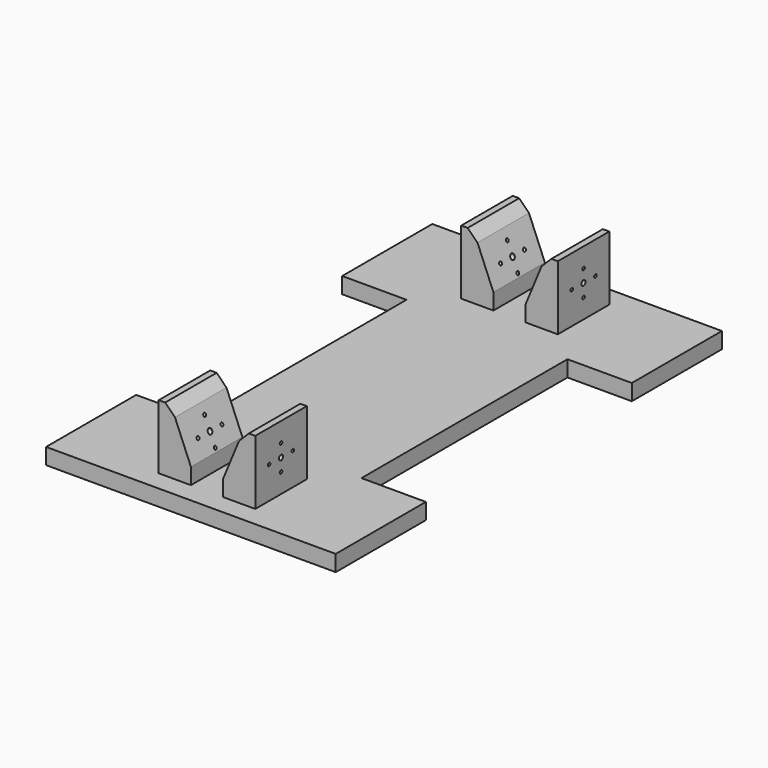
from build123d import *

# Parameters (mm, degrees)
F1_DEPTH = 12.7
F2_W     = 25.4
F2_H     = 50.8
F3_DEPTH = 63.5
F4_SIZE  = 20.32
F5_SIZE  = 17.78
F7_DEPTH = 254
F9_DEPTH = 254


with BuildPart() as f1:
    # F0 (on Top) → F1 (new body)
    with BuildSketch(Plane.XY):
        Polygon((50.8, 190.5), (114.3, 190.5), (114.3, 381), (0, 381), (0, 292.1), (50.8, 292.1), align=None)
        Polygon((114.3, 381), (114.3, 190.5), (177.8, 190.5), (177.8, 292.1), (228.6, 292.1), (228.6, 381), align=None)
        Polygon((0, 88.9), (0, 0), (114.3, 0), (114.3, 190.5), (50.8, 190.5), (50.8, 88.9), align=None)
        Polygon((114.3, 190.5), (114.3, 0), (228.6, 0), (228.6, 88.9), (177.8, 88.9), (177.8, 190.5), align=None)
    extrude(amount=F1_DEPTH)

    # F2 (on Top) → F3 (join)
    with BuildSketch(Plane.XY):
        with Locations((139.7, 339.725)):
            Rectangle(F2_W, F2_H)
        with Locations((88.9, 339.725)):
            Rectangle(F2_W, F2_H)
        with Locations((139.7, 41.275)):
            Rectangle(F2_W, F2_H)
        with Locations((88.9, 41.275)):
            Rectangle(F2_W, F2_H)
    extrude(amount=F3_DEPTH)

    # F4
    f4_edges = [f1.edges().sort_by_distance(p)[0] for p in [
        (101.6, 41.275, 63.5),
        (127, 41.275, 63.5),
        (127, 339.725, 63.5),
        (101.6, 339.725, 63.5),
    ]]
    chamfer(f4_edges, length=F4_SIZE)

    # F5
    f5_edges = [f1.edges().sort_by_distance(p)[0] for p in [
        (127, 339.725, 43.18),
        (101.6, 339.725, 43.18),
        (127, 41.275, 43.18),
        (101.6, 41.275, 43.18),
    ]]
    chamfer(f5_edges, length=F5_SIZE)

    # F6 (on face) → F7 (cut)
    with BuildSketch(Plane(origin=(76.2, 0, 0), x_dir=(0, -1, 0), z_dir=(-1, 0, 0))):
        with BuildLine():
            ThreePointArc((-40.005, 48.1965), (-40.3769743879, 49.0945256121), (-41.275, 49.4665))
            Line((-41.275, 49.4665), (-41.275, 46.9265))
            ThreePointArc((-41.275, 46.9265), (-40.3769743879, 47.2984743879), (-40.005, 48.1965))
        make_face()
        with BuildLine():
            Line((-41.275, 46.9265), (-41.275, 49.4665))
            ThreePointArc((-41.275, 49.4665), (-42.545, 48.1965), (-41.275, 46.9265))
        make_face()
        with BuildLine():
            ThreePointArc((-51.7525, 38.1), (-53.0225, 39.37), (-54.2925, 38.1))
            Line((-54.2925, 38.1), (-51.7525, 38.1))
        make_face()
        with BuildLine():
            Line((-51.7525, 38.1), (-54.2925, 38.1))
            ThreePointArc((-54.2925, 38.1), (-53.0225, 36.83), (-51.7525, 38.1))
        make_face()
        with BuildLine():
            ThreePointArc((-39.243, 38.1), (-39.8381590206, 39.5368409794), (-41.275, 40.132))
            Line((-41.275, 40.132), (-41.275, 38.1))
            Line((-41.275, 38.1), (-39.243, 38.1))
        make_face()
        with BuildLine():
            Line((-41.275, 38.1), (-41.275, 40.132))
            ThreePointArc((-41.275, 40.132), (-42.7118409794, 39.5368409794), (-43.307, 38.1))
            Line((-43.307, 38.1), (-41.275, 38.1))
        make_face()
        with BuildLine():
            Line((-41.275, 38.1), (-43.307, 38.1))
            ThreePointArc((-43.307, 38.1), (-42.7118409794, 36.6631590206), (-41.275, 36.068))
            Line((-41.275, 36.068), (-41.275, 38.1))
        make_face()
        with BuildLine():
            ThreePointArc((-41.275, 29.2735), (-42.545, 28.0035), (-41.275, 26.7335))
            Line((-41.275, 26.7335), (-41.275, 29.2735))
        make_face()
        with BuildLine():
            Line((-41.275, 29.2735), (-41.275, 26.7335))
            ThreePointArc((-41.275, 26.7335), (-40.3769743879, 27.1054743879), (-40.005, 28.0035))
            ThreePointArc((-40.005, 28.0035), (-40.3769743879, 28.9015256121), (-41.275, 29.2735))
        make_face()
        with BuildLine():
            Line((-30.7975, 38.1), (-28.2575, 38.1))
            ThreePointArc((-28.2575, 38.1), (-29.5275, 39.37), (-30.7975, 38.1))
        make_face()
        with BuildLine():
            ThreePointArc((-30.7975, 38.1), (-29.5275, 36.83), (-28.2575, 38.1))
            Line((-28.2575, 38.1), (-30.7975, 38.1))
        make_face()
        with BuildLine():
            ThreePointArc((-41.275, 36.068), (-39.8381590206, 36.6631590206), (-39.243, 38.1))
            Line((-39.243, 38.1), (-41.275, 38.1))
            Line((-41.275, 38.1), (-41.275, 36.068))
        make_face()
    extrude(amount=-F7_DEPTH, mode=Mode.SUBTRACT)

    # F8 (on face) → F9 (cut)
    with BuildSketch(Plane(origin=(76.2, 0, 0), x_dir=(0, -1, 0), z_dir=(-1, 0, 0))):
        with BuildLine():
            ThreePointArc((-338.455, 48.1965), (-338.8269743879, 49.0945256121), (-339.725, 49.4665))
            Line((-339.725, 49.4665), (-339.725, 46.9265))
            ThreePointArc((-339.725, 46.9265), (-338.8269743879, 47.2984743879), (-338.455, 48.1965))
        make_face()
        with BuildLine():
            Line((-339.725, 46.9265), (-339.725, 49.4665))
            ThreePointArc((-339.725, 49.4665), (-340.995, 48.1965), (-339.725, 46.9265))
        make_face()
        with BuildLine():
            Line((-350.2025, 38.1), (-352.7425, 38.1))
            ThreePointArc((-352.7425, 38.1), (-351.4725, 36.83), (-350.2025, 38.1))
        make_face()
        with BuildLine():
            ThreePointArc((-350.2025, 38.1), (-351.4725, 39.37), (-352.7425, 38.1))
            Line((-352.7425, 38.1), (-350.2025, 38.1))
        make_face()
        with BuildLine():
            Line((-339.725, 38.1), (-339.725, 40.132))
            ThreePointArc((-339.725, 40.132), (-341.1618409794, 39.5368409794), (-341.757, 38.1))
            Line((-341.757, 38.1), (-339.725, 38.1))
        make_face()
        with BuildLine():
            ThreePointArc((-339.725, 36.068), (-338.2881590206, 36.6631590206), (-337.693, 38.1))
            Line((-337.693, 38.1), (-339.725, 38.1))
            Line((-339.725, 38.1), (-339.725, 36.068))
        make_face()
        with BuildLine():
            ThreePointArc((-337.693, 38.1), (-338.2881590206, 39.5368409794), (-339.725, 40.132))
            Line((-339.725, 40.132), (-339.725, 38.1))
            Line((-339.725, 38.1), (-337.693, 38.1))
        make_face()
        with BuildLine():
            Line((-339.725, 38.1), (-341.757, 38.1))
            ThreePointArc((-341.757, 38.1), (-341.1618409794, 36.6631590206), (-339.725, 36.068))
            Line((-339.725, 36.068), (-339.725, 38.1))
        make_face()
        with BuildLine():
            Line((-329.2475, 38.1), (-326.7075, 38.1))
            ThreePointArc((-326.7075, 38.1), (-327.9775, 39.37), (-329.2475, 38.1))
        make_face()
        with BuildLine():
            ThreePointArc((-329.2475, 38.1), (-327.9775, 36.83), (-326.7075, 38.1))
            Line((-326.7075, 38.1), (-329.2475, 38.1))
        make_face()
        with BuildLine():
            Line((-339.725, 29.2735), (-339.725, 26.7335))
            ThreePointArc((-339.725, 26.7335), (-338.8269743879, 27.1054743879), (-338.455, 28.0035))
            ThreePointArc((-338.455, 28.0035), (-338.8269743879, 28.9015256121), (-339.725, 29.2735))
        make_face()
        with BuildLine():
            ThreePointArc((-339.725, 29.2735), (-340.995, 28.0035), (-339.725, 26.7335))
            Line((-339.725, 26.7335), (-339.725, 29.2735))
        make_face()
    extrude(amount=-F9_DEPTH, mode=Mode.SUBTRACT)


solid = f1.part
